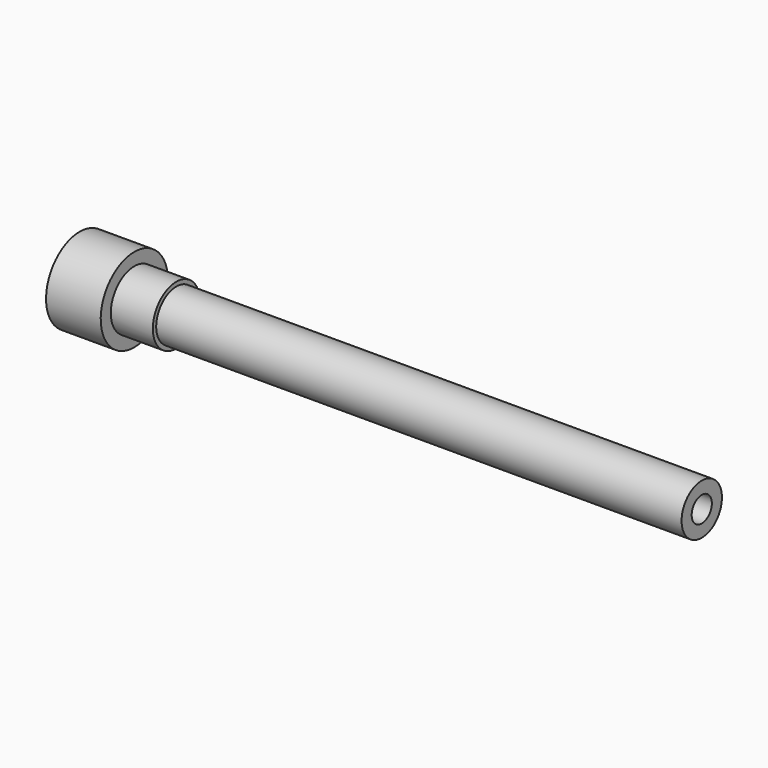
from build123d import *

# Parameters (mm, degrees)
F0_W = 125
F0_H = 6
F3_D = 6


with BuildPart() as f1:
    # F0 (on Front) → F1 (revolve)
    with BuildSketch(Plane.XZ):
        with Locations((9.420499, 7.277002)):
            Rectangle(F0_W, F0_H)
        Polygon((-53.079501, 4.277002), (-53.079501, 10.277002), (-63.079501, 10.277002), (-63.079501, 3.277002), (-53.079501, 3.277002), align=None)
        Polygon((-63.079501, 3.277002), (-63.079501, 10.277002), (-76.079501, 10.277002), (-76.079501, 0.277002), (-63.079501, 0.277002), align=None)
    revolve(axis=Axis((9.420499, 0, 10.277002), (-1, 0, 0)))

    # F3 (through all)
    with Locations(Plane(origin=(-76.079501, 0, 0), x_dir=(0, -1, 0), z_dir=(-1, 0, 0))):
        with Locations((0, 10.277002)):
            Hole(F3_D / 2)


solid = f1.part
